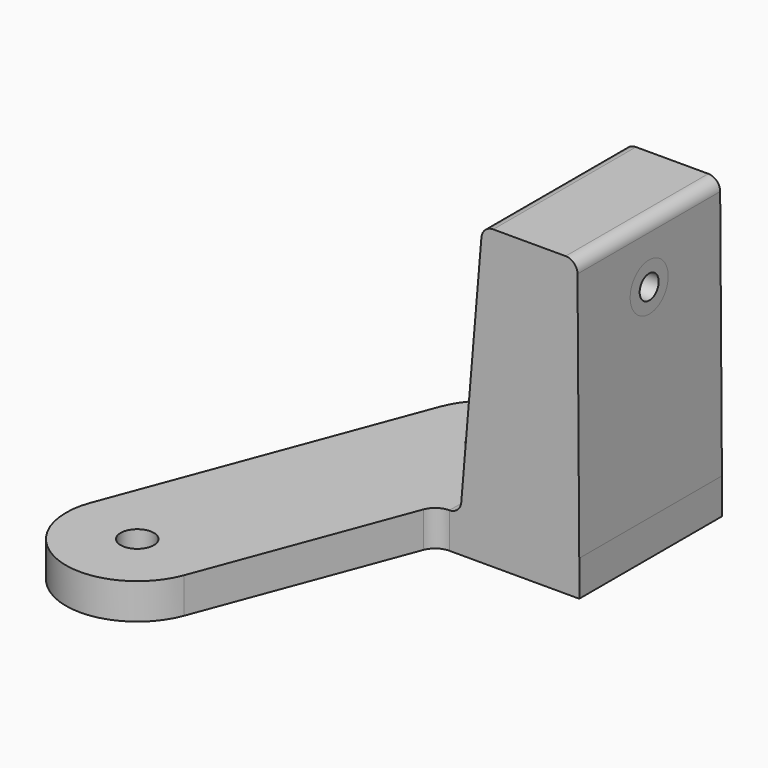
from build123d import *

# Parameters (mm, degrees)
F0_R     = 1.4
F0_W     = 10
F0_H     = 15
F3_DEPTH = 3
F2_W     = 8
F2_H     = 15
F5_R     = 2
F5_R_2   = 1
F6_DEPTH = 10
F7_DEPTH = 15
F8_R     = 1


with BuildPart() as f3:
    # F0 (on Top) → F3 (new body)
    with BuildSketch(Plane.XY):
        with BuildLine():
            Line((-2.3220218662, -1.1490219488), (4.1030128133, -18.2824477607))
            ThreePointArc((4.1030128133, -18.2824477607), (11.8277285282, -21.7936821766), (15.3389629441, -14.0689664616))
            Line((15.3389629441, -14.0689664616), (5.9639629441, 10.9310335384))
            ThreePointArc((5.9639629441, 10.9310335384), (3.7635569052, 13.7558465942), (0.3459878787, 14.8242928889))
            Line((0.3459878787, 14.8242928889), (-4.6540121213, 14.8242928889))
            Line((-4.6540121213, 14.8242928889), (-4.6540121213, -0.1757071111))
            Line((-4.6540121213, -0.1757071111), (-3.7265156326, -0.1757071111))
            ThreePointArc((-3.7265156326, -0.1757071111), (-2.8721233759, -0.4428186848), (-2.3220218662, -1.1490219488))
        make_face()
        with Locations((9.7209878787, -16.1757071111)):
            Circle(F0_R, mode=Mode.SUBTRACT)
        with Locations((0.3459878787, 8.8242928889)):
            Circle(F0_R, mode=Mode.SUBTRACT)
        with Locations((-9.6540121213, 7.3242928889)):
            Rectangle(F0_W, F0_H)
    extrude(amount=-F3_DEPTH)

    # F0 (on Top) → F4 section 0
    with BuildSketch(Plane.XY):
        with Locations((-9.6540121213, 7.3242928889)):
            Rectangle(F0_W, F0_H)
    # F2 (on offset) → F4 section 1
    with BuildSketch(Plane.XY.offset(22)):
        with Locations((-10.5001659675, 7.3242928889)):
            Rectangle(F2_W, F2_H)
    loft()

    # F5 (on face) → F6 (join)
    with BuildSketch(Plane(origin=(-14.6532955437, 0, 0.1024705982), x_dir=(0, -1, 0), z_dir=(-0.9999755498, 0, 0.006992836))):
        with Locations((-7.3242928889, 16.8980648133)):
            Circle(F5_R)
        with Locations((-7.3242928889, 16.8980648133)):
            Circle(F5_R_2, mode=Mode.SUBTRACT)
    extrude(amount=-F6_DEPTH)

    # F5 (on face) → F7 (cut)
    with BuildSketch(Plane(origin=(-14.6532955437, 0, 0.1024705982), x_dir=(0, -1, 0), z_dir=(-0.9999755498, 0, 0.006992836))):
        with Locations((-7.3242928889, 16.8980648133)):
            Circle(F5_R_2)
    extrude(amount=-F7_DEPTH, mode=Mode.SUBTRACT)

    # F8
    f8_edges = [f3.edges().sort_by_distance(p)[0] for p in [
        (-6.500166, 7.324293, 22),
        (-14.500166, 7.324293, 22),
        (-4.654012, 7.324293, 0),
    ]]
    fillet(f8_edges, radius=F8_R)


with BuildPart() as f9_1:
    # F9: instance of F3
    add(f3.part.mirror(Plane.YZ))


solid = f9_1.part
